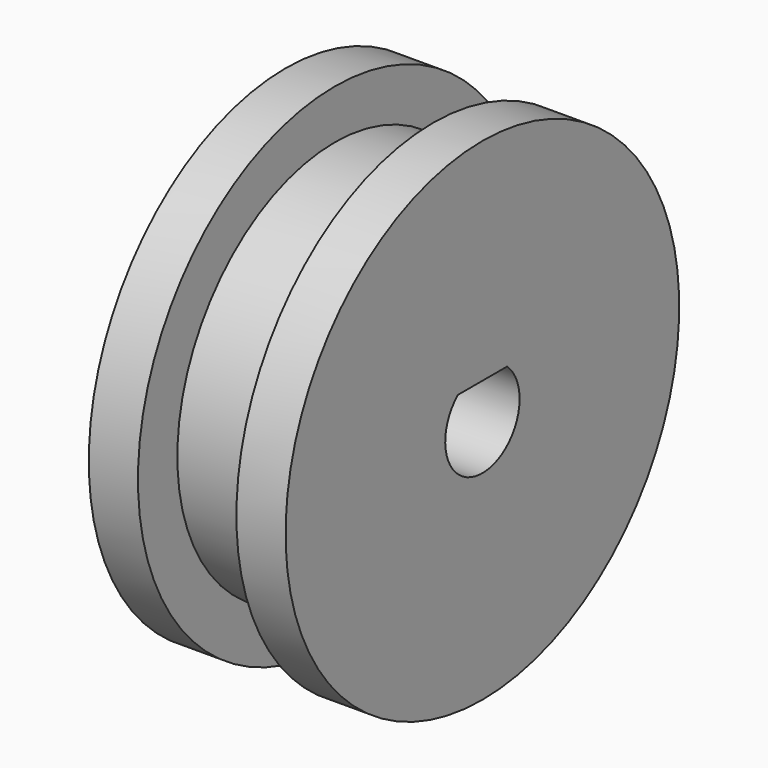
from build123d import *

# Parameters (mm, degrees)
F3_DEPTH      = 6.35
F3_DEPTH_BACK = 6.35


with BuildPart() as f1:
    # F0 (on Front) → F1 (revolve)
    with BuildSketch(Plane.XZ):
        Polygon((-6.35, 15.875), (-6.35, 3), (6.35, 3), (6.35, 15.875), (3.175, 15.875), (3.175, 12.7), (-3.175, 12.7), (-3.175, 15.875), align=None)
    revolve(axis=Axis((0, 0, 0), (1, 0, 0)))

    # F2 (on Right) → F3 (join, two sides)
    with BuildSketch(Plane.YZ) as f3_sk:
        with BuildLine():
            Line((-1.9843134833, 2.25), (1.9843134833, 2.25))
            ThreePointArc((1.9843134833, 2.25), (0, 3), (-1.9843134833, 2.25))
        make_face()
    extrude(amount=F3_DEPTH)
    extrude(f3_sk.sketch, amount=-F3_DEPTH_BACK)


solid = f1.part
